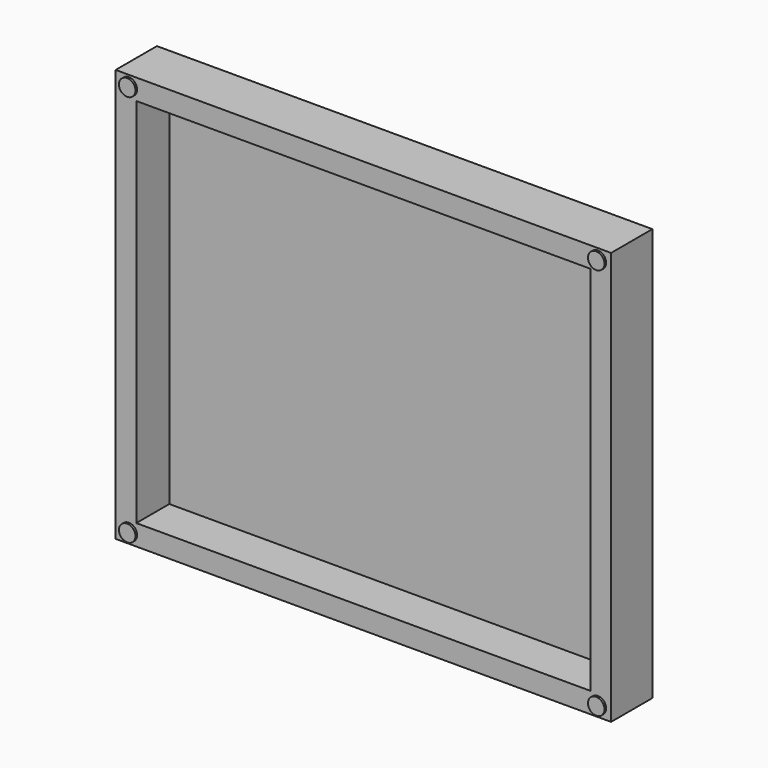
from build123d import *

# Parameters (mm, degrees)
F0_W      = 1200
F0_H      = 1000
F1_DEPTH  = 25
F2_W      = 1200
F2_H      = 100
F3_DEPTH  = 50
F4_W      = 1200
F4_H      = 100
F5_DEPTH  = 50
F6_R      = 20
F7_DEPTH  = 5
F8_W      = 50
F8_H      = 900
F9_DEPTH  = 100
F10_W     = 50
F10_H     = 900
F11_DEPTH = 100


with BuildPart() as f1:
    # F0 (on Front) → F1 (new body)
    with BuildSketch(Plane.XZ):
        Rectangle(F0_W, F0_H)
    extrude(amount=F1_DEPTH)

    # F2 (on face) → F3 (join)
    with BuildSketch(Plane.XY.offset(500)):
        with Locations((0, -75)):
            Rectangle(F2_W, F2_H)
    extrude(amount=-F3_DEPTH)

    # F4 (on face) → F5 (join)
    with BuildSketch(Plane(origin=(0, 0, -500), x_dir=(1, 0, 0), z_dir=(0, 0, -1))):
        with Locations((0, 75)):
            Rectangle(F4_W, F4_H)
    extrude(amount=-F5_DEPTH)

    # F6 (on face) → F7 (join)
    with BuildSketch(Plane.XZ.offset(125)):
        with Locations((-568, 475)):
            Circle(F6_R)
        with Locations((568, 475)):
            Circle(F6_R)
        with Locations((-568, -475)):
            Circle(F6_R)
        with Locations((568, -475)):
            Circle(F6_R)
    extrude(amount=F7_DEPTH)

    # F8 (on face) → F9 (join)
    with BuildSketch(Plane.XZ.offset(25)):
        with Locations((575, 0)):
            Rectangle(F8_W, F8_H)
    extrude(amount=F9_DEPTH)

    # F10 (on face) → F11 (join)
    with BuildSketch(Plane.XZ.offset(25)):
        with Locations((-575, 0)):
            Rectangle(F10_W, F10_H)
    extrude(amount=F11_DEPTH)


solid = f1.part
